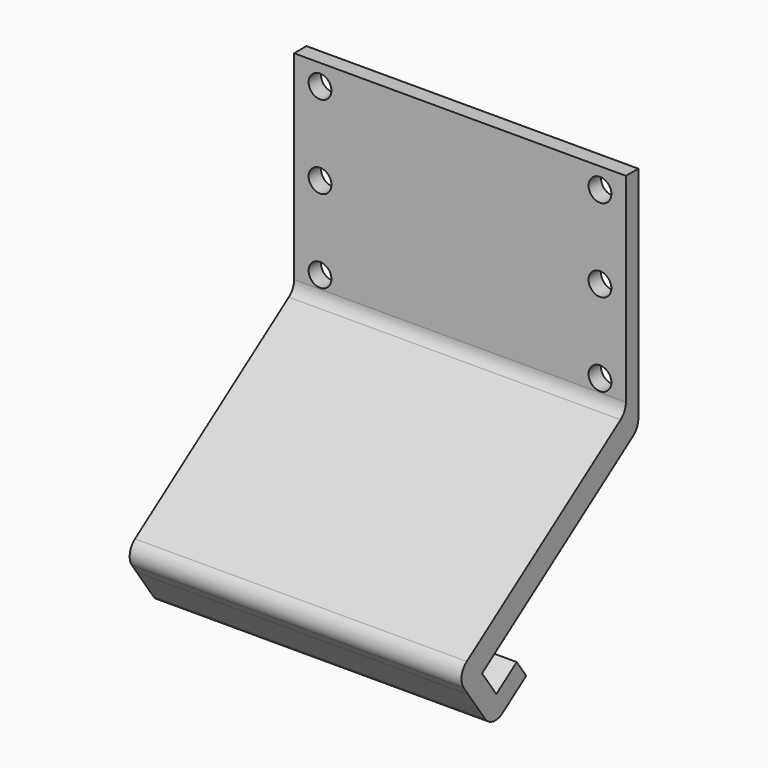
from build123d import *

# Parameters (mm, degrees)
F0_W     = 64
F0_H     = 40
F0_R     = 2.2
F1_DEPTH = 3
F3_DEPTH = 32
F4_R     = 3


with BuildPart() as f1:
    # F0 (on Front) → F1 (new body)
    with BuildSketch(Plane.XZ):
        Rectangle(F0_W, F0_H)
        with Locations((-27, -16)):
            Circle(F0_R, mode=Mode.SUBTRACT)
        with Locations((27, -16)):
            Circle(F0_R, mode=Mode.SUBTRACT)
        with Locations((-27, 0)):
            Circle(F0_R, mode=Mode.SUBTRACT)
        with Locations((-27, 16)):
            Circle(F0_R, mode=Mode.SUBTRACT)
        with Locations((27, 0)):
            Circle(F0_R, mode=Mode.SUBTRACT)
        with Locations((27, 16)):
            Circle(F0_R, mode=Mode.SUBTRACT)
    extrude(amount=F1_DEPTH)

    # F2 (on Right) → F3 (join, symmetric)
    with BuildSketch(Plane.YZ):
        Polygon((0, -20), (-3, -20), (-43.8254843962, -48.5863119253), (-40.9576022144, -52.6820721467), (-37.6809940373, -50.3877664013), (0, -24.0032503292), align=None)
        Polygon((-37.6809940373, -50.3877664013), (-40.9576022144, -52.6820721467), (-35.2218378509, -60.8735925896), (-27.030317408, -55.1378282261), (-29.3246231535, -51.861220049), (-34.2395354192, -55.3026786671), align=None)
    extrude(amount=F3_DEPTH, both=True)

    # F4
    f4_edges = [f1.edges().sort_by_distance(p)[0] for p in [
        (0, -3, -20),
        (0, 0, -24.00325),
        (0, -43.825484, -48.586312),
        (0, -35.221838, -60.873593),
    ]]
    fillet(f4_edges, radius=F4_R)


solid = f1.part
